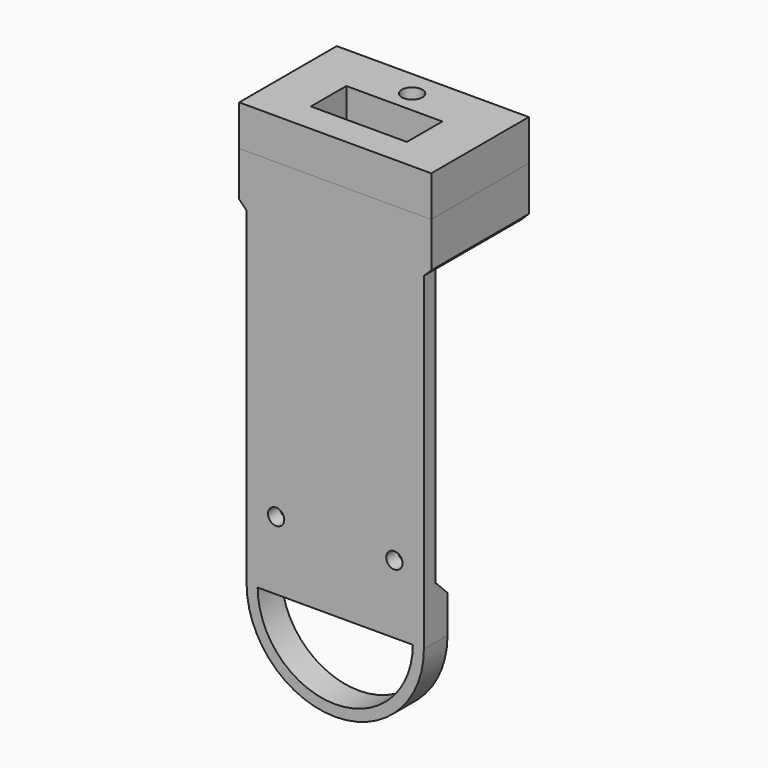
from build123d import *

# Parameters (mm, degrees)
CYLINDER005_R     = 3.1
CYLINDER005_DEPTH = 2
BOX002_W          = 21
BOX002_H          = 3
BOX002_DEPTH      = 7
BOX003_W          = 10
BOX003_H          = 3
BOX003_DEPTH      = 7
FILLET001_R       = 1.45
CYLINDER006_R     = 2
CYLINDER006_DEPTH = 2
BOX_W             = 24
BOX_H             = 14.5
BOX_DEPTH         = 4
FILLET_R          = 2.5
BOX001_W          = 26
BOX001_H          = 16.5
BOX001_DEPTH      = 7
CHAMFER_SIZE      = 0.95
CYLINDER009_W     = 10.5
CYLINDER009_H     = 4
CYLINDER009_ANGLE = 180
CYLINDER008_W     = 12
CYLINDER008_H     = 4
CYLINDER008_ANGLE = 180
BOX011_W          = 24
BOX011_H          = 4
BOX011_DEPTH      = 7
CYLINDER001_R     = 1.1
CYLINDER001_DEPTH = 10
CYLINDER002_R     = 1.1
CYLINDER002_DEPTH = 10
BOX007_W          = 24
BOX007_H          = 2
BOX007_DEPTH      = 43.5
CHAMFER001_SIZE   = 1.95
BOX012_W          = 22.5
BOX012_H          = 10.5
BOX012_DEPTH      = 1.25
CYLINDER007_R     = 1.4
CYLINDER007_DEPTH = 6
BOX004_W          = 22.5
BOX004_H          = 3
BOX004_DEPTH      = 3.5
BOX010_W          = 13
BOX010_H          = 6
BOX010_DEPTH      = 10
BOX005_W          = 26
BOX005_H          = 16.5
BOX005_DEPTH      = 5.5


with BuildPart() as cylinder005_bolt_head:
    # Cylinder005 → Cylinder005 (new body)
    with BuildSketch(Plane(origin=(12, 11, 4), x_dir=(1, 0, 0), z_dir=(0, 0, 1))):
        Circle(CYLINDER005_R)
    extrude(amount=CYLINDER005_DEPTH)


with BuildPart() as cube_header_cutter:
    # Box002 → Box002 (new body)
    with BuildSketch(Plane(origin=(1.5, 0, 0), x_dir=(1, 0, 0), z_dir=(0, 0, 1))):
        with Locations((10.5, 1.5)):
            Rectangle(BOX002_W, BOX002_H)
    extrude(amount=BOX002_DEPTH)


with BuildPart() as fillet001:
    # Box003 → Box003 (new body)
    with BuildSketch(Plane(origin=(7, 5, 0), x_dir=(1, 0, 0), z_dir=(0, 0, 1))):
        with Locations((5, 1.5)):
            Rectangle(BOX003_W, BOX003_H)
    extrude(amount=BOX003_DEPTH)

    # Fillet001
    fillet001_edges = [fillet001.edges().sort_by_distance(p)[0] for p in [
        (7, 5, 3.5),
        (7, 8, 3.5),
        (17, 5, 3.5),
        (17, 8, 3.5),
    ]]
    fillet(fillet001_edges, radius=FILLET001_R)


with BuildPart() as fusion:
    # Cylinder006 → Cylinder006 (new body)
    with BuildSketch(Plane(origin=(12, 11, 5), x_dir=(1, 0, 0), z_dir=(0, 0, 1))):
        Circle(CYLINDER006_R)
    extrude(amount=CYLINDER006_DEPTH)

    # Fusion: union Cylinder005(bolt_head), Cube(header_cutter), Fillet001
    add(cylinder005_bolt_head.part)
    add(cube_header_cutter.part)
    add(fillet001.part)


with BuildPart() as fillet_body:
    # Box → Box (new body)
    with BuildSketch(Plane.XY):
        with Locations((12, 7.25)):
            Rectangle(BOX_W, BOX_H)
    extrude(amount=BOX_DEPTH)

    # Fillet
    fillet_edges = [fillet_body.edges().sort_by_distance(p)[0] for p in [
        (0, 7.25, 4),
        (24, 7.25, 4),
    ]]
    fillet(fillet_edges, radius=FILLET_R)


with BuildPart() as chamfer_body:
    # Box001 → Box001 (new body)
    with BuildSketch(Plane(origin=(-1, -2, 0), x_dir=(1, 0, 0), z_dir=(0, 0, 1))):
        with Locations((13, 8.25)):
            Rectangle(BOX001_W, BOX001_H)
    extrude(amount=BOX001_DEPTH)

    # Cut: cut Fillet body
    add(fillet_body.part, mode=Mode.SUBTRACT)

    # Cut001: cut Fusion
    add(fusion.part, mode=Mode.SUBTRACT)

    # Chamfer
    chamfer_edges = [chamfer_body.edges().sort_by_distance(p)[0] for p in [
        (-1, 6.25, 0),
        (25, 6.25, 0),
    ]]
    chamfer(chamfer_edges, length=CHAMFER_SIZE)


with BuildPart() as cylinder008_inner_hook:
    # Cylinder009 → Cylinder009 (revolve)
    with BuildSketch(Plane(origin=(12, 2, -44.5), x_dir=(-1, 0, 0), z_dir=(0, 0, 1))):
        with Locations((5.25, 2)):
            Rectangle(CYLINDER009_W, CYLINDER009_H)
    revolve(axis=Axis((12, 2, -44.5), (0, -1, 0)), revolution_arc=CYLINDER009_ANGLE)


with BuildPart() as cylinder008_outer_hook:
    # Cylinder008 → Cylinder008 (revolve)
    with BuildSketch(Plane(origin=(12, 2, -44.5), x_dir=(-1, 0, 0), z_dir=(0, 0, 1))):
        with Locations((6, 2)):
            Rectangle(CYLINDER008_W, CYLINDER008_H)
    revolve(axis=Axis((12, 2, -44.5), (0, -1, 0)), revolution_arc=CYLINDER008_ANGLE)


with BuildPart() as cut004:
    # Box011 → Box011 (new body)
    with BuildSketch(Plane(origin=(0, -2, -44.5), x_dir=(1, 0, 0), z_dir=(0, 0, 1))):
        with Locations((12, 2)):
            Rectangle(BOX011_W, BOX011_H)
    extrude(amount=BOX011_DEPTH)

    # Fusion008: union Cylinder008(outer_hook)
    add(cylinder008_outer_hook.part)

    # Cut004: cut Cylinder008(inner_hook)
    add(cylinder008_inner_hook.part, mode=Mode.SUBTRACT)


with BuildPart() as cylinder001_right_bolt_clear:
    # Cylinder001 → Cylinder001 (new body)
    with BuildSketch(Plane(origin=(4, 0, -35.25), x_dir=(1, 0, 0), z_dir=(0, -1, 0))):
        Circle(CYLINDER001_R)
    extrude(amount=CYLINDER001_DEPTH)


with BuildPart() as fusion004:
    # Cylinder002 → Cylinder002 (new body)
    with BuildSketch(Plane(origin=(20, 0, -35.25), x_dir=(1, 0, 0), z_dir=(0, -1, 0))):
        Circle(CYLINDER002_R)
    extrude(amount=CYLINDER002_DEPTH)

    # Fusion004: union Cylinder001(right_bolt_clear)
    add(cylinder001_right_bolt_clear.part)


with BuildPart() as chamfer001_base:
    # Box007 → Box007 (new body)
    with BuildSketch(Plane(origin=(0, -2, -37.5), x_dir=(1, 0, 0), z_dir=(0, 0, 1))):
        with Locations((12, 1)):
            Rectangle(BOX007_W, BOX007_H)
    extrude(amount=BOX007_DEPTH)

    # Cut005: cut Fusion004
    add(fusion004.part, mode=Mode.SUBTRACT)

    # Fusion009: union Chamfer body, Cut004
    add(chamfer_body.part)
    add(cut004.part)

    # Chamfer001
    chamfer001_edges = [chamfer001_base.edges().sort_by_distance(p)[0] for p in [
        (12, 2, -37.5),
    ]]
    chamfer(chamfer001_edges, length=CHAMFER001_SIZE)


with BuildPart() as box012:
    # Box012 → Box012 (new body)
    with BuildSketch(Plane(origin=(0.75, 3, 7), x_dir=(1, 0, 0), z_dir=(0, 0, 1))):
        with Locations((11.25, 5.25)):
            Rectangle(BOX012_W, BOX012_H)
    extrude(amount=BOX012_DEPTH)


with BuildPart() as cylinder005_bolt_thread:
    # Cylinder007 → Cylinder007 (new body)
    with BuildSketch(Plane(origin=(12, 11, 7), x_dir=(1, 0, 0), z_dir=(0, 0, 1))):
        Circle(CYLINDER007_R)
    extrude(amount=CYLINDER007_DEPTH)


with BuildPart() as cube_pcb_cut:
    # Box004 → Box004 (new body)
    with BuildSketch(Plane(origin=(0.75, 0, 7), x_dir=(1, 0, 0), z_dir=(0, 0, 1))):
        with Locations((11.25, 1.5)):
            Rectangle(BOX004_W, BOX004_H)
    extrude(amount=BOX004_DEPTH)


with BuildPart() as fusion007:
    # Box010 → Box010 (new body)
    with BuildSketch(Plane(origin=(5.5, 2, 7), x_dir=(1, 0, 0), z_dir=(0, 0, 1))):
        with Locations((6.5, 3)):
            Rectangle(BOX010_W, BOX010_H)
    extrude(amount=BOX010_DEPTH)

    # Fusion007: union Cylinder005(bolt_thread), Cube(pcb_cut)
    add(cylinder005_bolt_thread.part)
    add(cube_pcb_cut.part)


with BuildPart() as cut006_cover:
    # Box005 → Box005 (new body)
    with BuildSketch(Plane(origin=(-1, -2, 7), x_dir=(1, 0, 0), z_dir=(0, 0, 1))):
        with Locations((13, 8.25)):
            Rectangle(BOX005_W, BOX005_H)
    extrude(amount=BOX005_DEPTH)

    # Cut003: cut Fusion007
    add(fusion007.part, mode=Mode.SUBTRACT)

    # Cut006: cut Box012
    add(box012.part, mode=Mode.SUBTRACT)


solid = Compound([chamfer001_base.part, cut006_cover.part])
